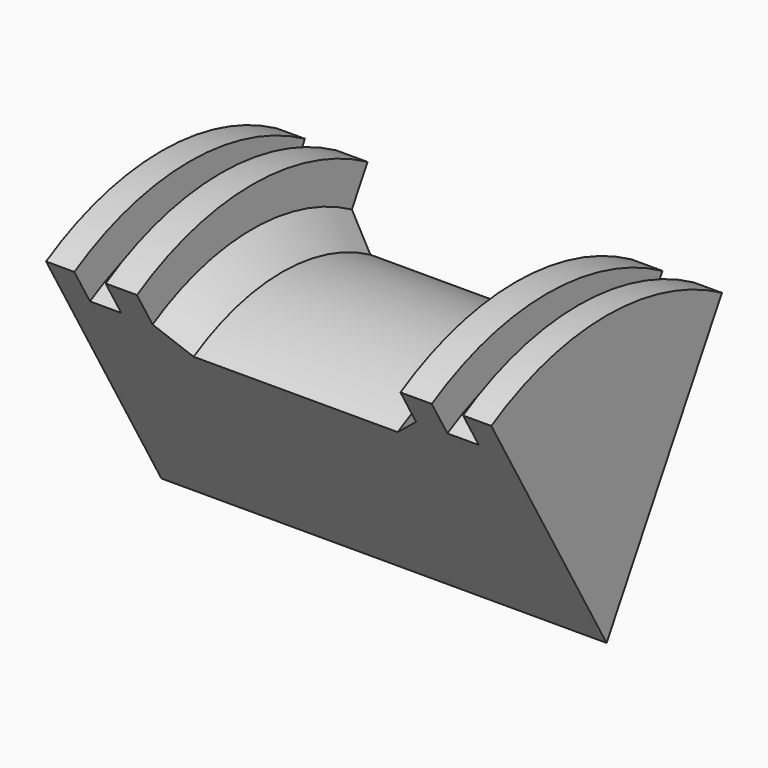
from build123d import *

# Parameters (mm, degrees)
F1_ANGLE_BACK = 30
F1_ANGLE      = 60


with BuildPart() as f1:
    # F0 (on Front) → F1 (revolve)
    with BuildSketch(Plane.XZ, mode=Mode.PRIVATE) as f1_sk:
        Polygon((-18.2347744703, 0), (0, 0), (0, 18.0977154523), (-8.3552384749, 18.0977154523), (-10.7930451632, 20.4072166234), (-10.7930451632, 23.6148592085), (-13.3591582999, 23.6148592085), (-13.3591582999, 20.4072166234), (-15.9252732992, 20.4072166234), (-15.9252732992, 23.6148592085), (-18.2347744703, 23.6148592085), align=None)
        Polygon((0, 18.0977154523), (0, 0), (18.2347744703, 0), (18.2347744703, 23.6148592085), (15.9252732992, 23.6148592085), (15.9252732992, 20.4072166234), (13.3591582999, 20.4072166234), (13.3591582999, 23.6148592085), (10.7930451632, 23.6148592085), (10.7930451632, 20.4072166234), (8.3552384749, 18.0977154523), align=None)
    revolve(f1_sk.sketch.rotate(Axis((9.1173872352, 0, 0), (1, 0, 0)), -F1_ANGLE_BACK), axis=Axis((9.1173872352, 0, 0), (1, 0, 0)), revolution_arc=F1_ANGLE)


solid = f1.part
